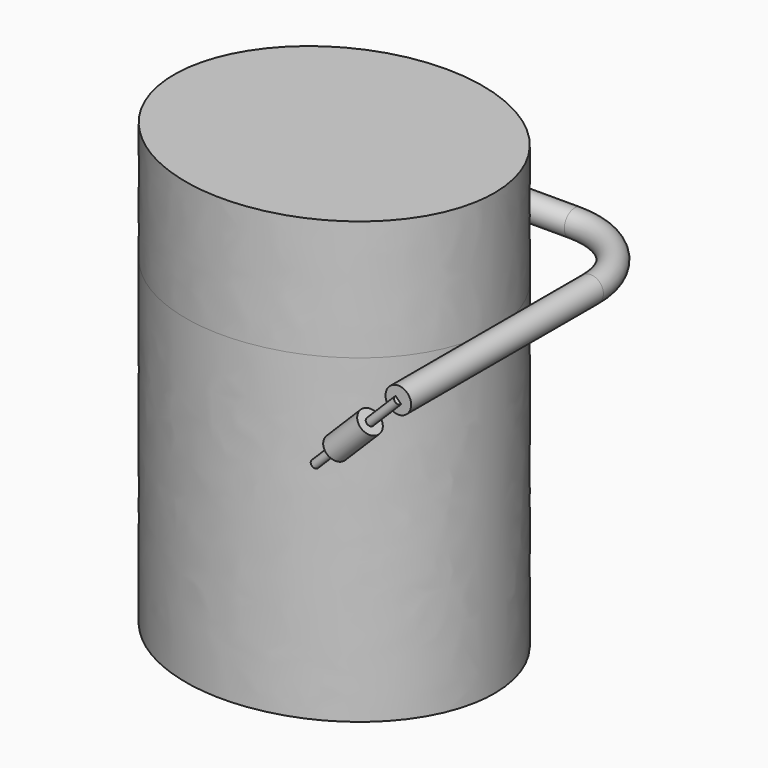
from build123d import *

# Parameters (mm, degrees)
F2_R           = 16
F5_R           = 5
F6_DEPTH       = 147.0942820074
F8_R           = 15
F8_R_2         = 5
F9_DEPTH       = 60
F11_DEPTH      = 150
F11_DEPTH_BACK = 400


with BuildPart() as f3:
    # F3: sweep along a path in F0
    with BuildLine(Plane.XY) as f3_path:
        Line((0, 0), (0, 300))
        ThreePointArc((0, 300), (-29.2893218813, 370.7106781187), (-100, 400))
        Line((-100, 400), (-178.9999318123, 400))
    # F2 (on Front) → F3 (sweep)
    with BuildSketch(Plane.XZ):
        Circle(F2_R)
    sweep(path=f3_path.line)

    # F5 (on line) → F6 (join, through all)
    with BuildSketch(Plane(origin=(0, 0, 0), x_dir=(0.7071067812, 0, -0.7071067812), z_dir=(-0.7071067812, 0, -0.7071067812))):
        Circle(F5_R)
    extrude(amount=F6_DEPTH)


with BuildPart() as f9:
    # F8 (on offset) → F9 (new body)
    with BuildSketch(Plane(origin=(-35.3553390593, 0, -35.3553390593), x_dir=(0.7071067812, 0, -0.7071067812), z_dir=(-0.7071067812, 0, -0.7071067812))):
        Circle(F8_R)
        Circle(F8_R_2, mode=Mode.SUBTRACT)
    extrude(amount=F9_DEPTH)


with BuildPart() as f11:
    # F10 (on Top) → F11 (new body, two sides)
    with BuildSketch(Plane.XY) as f11_sk:
        with BuildLine():
            add(Edge.make_bspline(
                [(-20, 175), (-20, 478.1088913246), (-320, 326.5544456623), (-620, 175), (-320, 23.4455543377), (-20, -128.1088913246), (-20, 175)],
                knots=[0, 0, 0, 2.0943951024, 2.0943951024, 4.1887902048, 4.1887902048, 6.2831853072, 6.2831853072, 6.2831853072], degree=2, weights=[1, 0.5, 1, 0.5, 1, 0.5, 1]))
        make_face()
    extrude(amount=F11_DEPTH)
    extrude(f11_sk.sketch, amount=-F11_DEPTH_BACK)


solid = Compound([f3.part, f9.part, f11.part])
